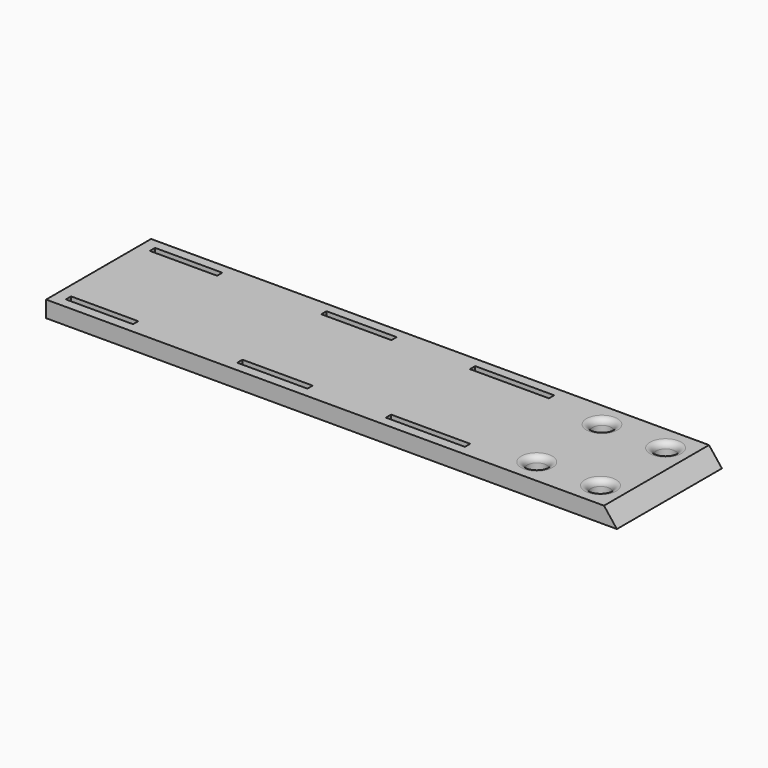
from build123d import *

# Parameters (mm, degrees)
F0_W     = 50.8
F0_H     = 215.9
F0_R     = 3.7465
F0_W_2   = 2.54
F0_H_2   = 30.5881015956
F0_R_2   = 3.7211
F0_H_3   = 27.157658129
F0_H_4   = 26.0141715407
F1_DEPTH = 6.35
F2_ANGLE = 180
F4_DEPTH = 50.8
F5_ANGLE = 90
F6_ANGLE = -90
F7_R     = 2.286


with BuildPart() as f1:
    # F0 (on Front) → F1 (new body)
    with BuildSketch(Plane.XZ):
        with Locations((-10.9999279406, -8.0348854876)):
            Rectangle(F0_W, F0_H)
        with Locations((-26.7352279406, -106.9043854876)):
            Circle(F0_R, mode=Mode.SUBTRACT)
        with Locations((-26.7352279406, -82.2409854876)):
            Circle(F0_R, mode=Mode.SUBTRACT)
        with Locations((-31.3199279406, -43.8153201211)):
            Rectangle(F0_W_2, F0_H_2, mode=Mode.SUBTRACT)
        with Locations((4.7353720594, -106.9043854876)):
            Circle(F0_R, mode=Mode.SUBTRACT)
        with Locations((4.7607720594, -82.2663985804)):
            Circle(F0_R_2, mode=Mode.SUBTRACT)
        with Locations((9.3200720594, -43.8153201211)):
            Rectangle(F0_W_2, F0_H_2, mode=Mode.SUBTRACT)
        with Locations((-31.3199279406, 15.4236085401)):
            Rectangle(F0_W_2, F0_H_3, mode=Mode.SUBTRACT)
        with Locations((-31.3199279406, 82.3172128331)):
            Rectangle(F0_W_2, F0_H_4, mode=Mode.SUBTRACT)
        with Locations((9.3200720594, 15.4236085401)):
            Rectangle(F0_W_2, F0_H_3, mode=Mode.SUBTRACT)
        with Locations((9.3200720594, 82.3172128331)):
            Rectangle(F0_W_2, F0_H_4, mode=Mode.SUBTRACT)
    extrude(amount=F1_DEPTH)


with BuildPart() as f1_1:
    # F2: moved
    add(f1.part.rotate(Axis((-10.9999279406, 0, 99.9151145124), (1, 0, 0)), F2_ANGLE))

    # F3 (on face) → F4 (join)
    with BuildSketch(Plane.YZ.offset(14.4000720594)):
        Polygon((0, 320.8044469357), (0, 315.8151145124), (6.35, 315.8151145124), align=None)
    extrude(amount=-F4_DEPTH)


with BuildPart() as f1_2:
    # F5: moved
    add(f1_1.part.rotate(Axis((-10.9999279406, 0, 99.9151145124), (1, 0, 0)), F5_ANGLE))


with BuildPart() as f1_3:
    # F6: moved
    add(f1_2.part.rotate(Axis((14.4000720594, 0, 103.0901145124), (0, 0, -1)), F6_ANGLE))

    # F7
    f7_edges = [f1_3.edges().sort_by_distance(p)[0] for p in [
        (196.581585, -13.3604, 106.265115),
        (221.219572, -13.4112, 106.265115),
        (196.556172, -44.8818, 106.265115),
        (221.219572, -44.8818, 106.265115),
    ]]
    fillet(f7_edges, radius=F7_R)


solid = f1_3.part
